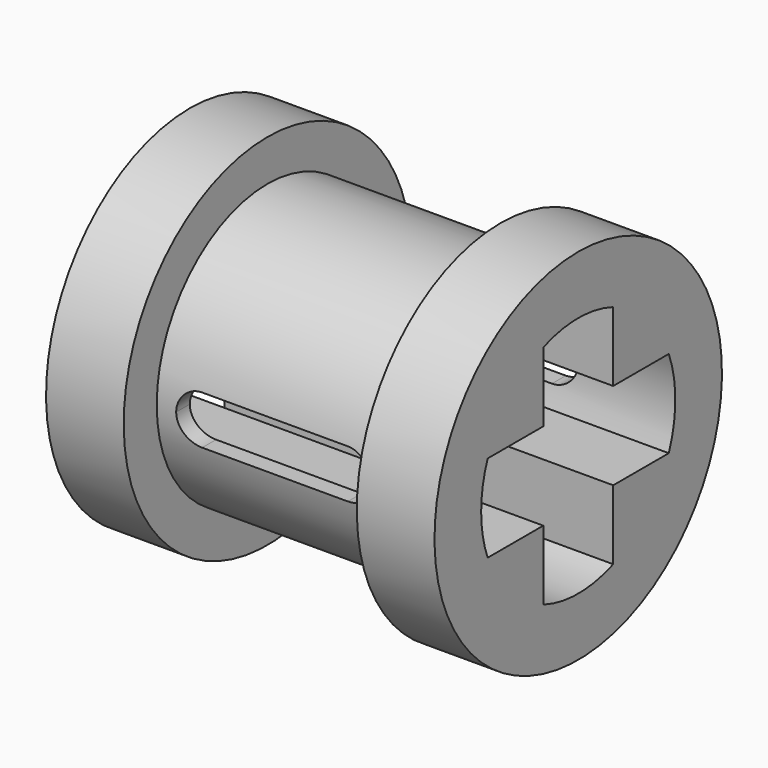
from build123d import *

# Parameters (mm, degrees)
F3_DEPTH = 8.001
F4_DEPTH = 5


with BuildPart() as f1:
    # F0 (on Front) → F1 (revolve)
    with BuildSketch(Plane.XZ):
        with BuildLine():
            Line((4, 2.85), (4, 3.7))
            Line((4, 3.7), (2.4, 3.7))
            Line((2.4, 3.7), (2.4, 2.85))
            Line((2.4, 2.85), (-2.4, 2.85))
            Line((-2.4, 2.85), (-2.4, 3.7))
            Line((-2.4, 3.7), (-4, 3.7))
            Line((-4, 3.7), (-4, 2.85))
            Line((-4, 2.85), (-4, 0))
            Line((-4, 0), (-2, 0))
            ThreePointArc((-2, 0), (-1.853553, 0.353553), (-1.5, 0.5))
            Line((-1.5, 0.5), (1.5, 0.5))
            ThreePointArc((1.5, 0.5), (1.853553, 0.353553), (2, 0))
            Line((2, 0), (4, 0))
            Line((4, 0), (4, 2.85))
        make_face()
    revolve(axis=Axis((-1.339528, 0, 0), (-1, 0, 0)))

    # F2 (on face) → F3 (cut, through all)
    with BuildSketch(Plane(origin=(-4, 0, 0), x_dir=(0, -1, 0), z_dir=(-1, 0, 0))):
        with BuildLine():
            ThreePointArc((2.331309, -0.9), (2.45672, -0.457745), (2.499, 0))
            ThreePointArc((2.499, 0), (2.45672, 0.457745), (2.331309, 0.9))
            Line((2.331309, 0.9), (0.9, 0.9))
            Line((0.9, 0.9), (0.9, 2.331309))
            ThreePointArc((0.9, 2.331309), (0, 2.499), (-0.9, 2.331309))
            Line((-0.9, 2.331309), (-0.9, 0.9))
            Line((-0.9, 0.9), (-2.331309, 0.9))
            ThreePointArc((-2.331309, 0.9), (-2.499, 0), (-2.331309, -0.9))
            Line((-2.331309, -0.9), (-0.9, -0.9))
            Line((-0.9, -0.9), (-0.9, -2.331309))
            ThreePointArc((-0.9, -2.331309), (0, -2.499), (0.9, -2.331309))
            Line((0.9, -2.331309), (0.9, -0.9))
            Line((0.9, -0.9), (2.331309, -0.9))
        make_face()
    extrude(amount=-F3_DEPTH, mode=Mode.SUBTRACT)

    # F0 (on Front) → F4 (cut, symmetric)
    with BuildSketch(Plane.XZ):
        with BuildLine():
            Line((-2, 0), (2, 0))
            ThreePointArc((2, 0), (1.853553, 0.353553), (1.5, 0.5))
            Line((1.5, 0.5), (-1.5, 0.5))
            ThreePointArc((-1.5, 0.5), (-1.853553, 0.353553), (-2, 0))
        make_face()
        with BuildLine():
            ThreePointArc((1.5, -0.5), (1.853553, -0.353553), (2, 0))
            Line((2, 0), (-2, 0))
            ThreePointArc((-2, 0), (-1.853553, -0.353553), (-1.5, -0.5))
            Line((-1.5, -0.5), (1.5, -0.5))
        make_face()
    extrude(amount=F4_DEPTH, both=True, mode=Mode.SUBTRACT)


solid = f1.part
